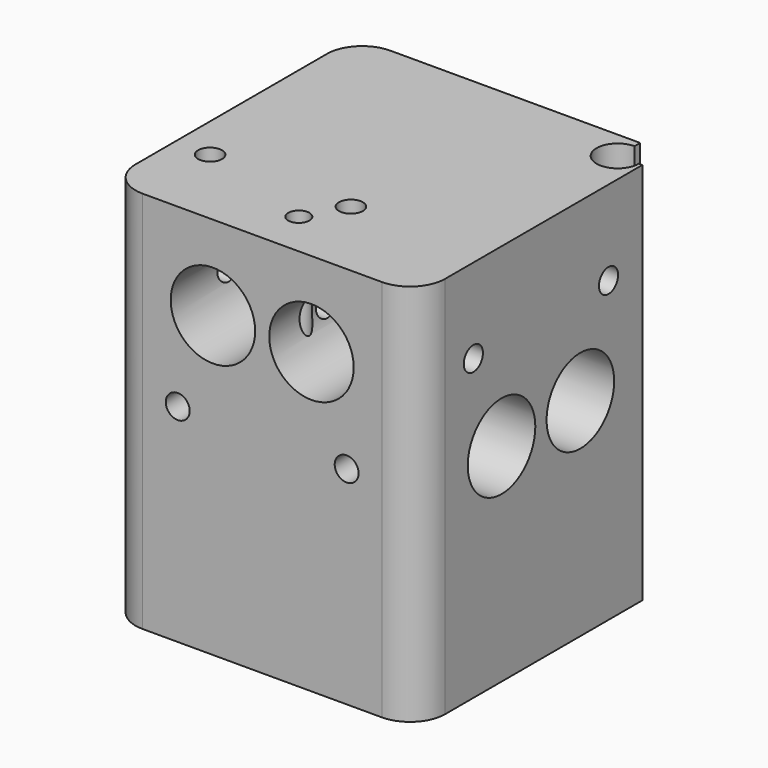
from build123d import *

# Parameters (mm, degrees)
F0_R     = 1.7
F0_R_2   = 1.5
F1_DEPTH = 54.45
F2_R     = 1.7
F2_R_2   = 6
F3_DEPTH = 44
F4_R     = 1.7
F4_R_2   = 6
F5_DEPTH = 44
F6_R     = 5
F7_DEPTH = 55
F8_DEPTH = 5


with BuildPart() as f1:
    # F0 (on Top) → F1 (new body)
    with BuildSketch(Plane.XY):
        with BuildLine():
            Line((18.5, 22), (-22, 22))
            Line((-22, 22), (-22, -22))
            Line((-22, -22), (22, -22))
            Line((22, -22), (22, 18))
            Line((22, 18), (21.5, 18))
            ThreePointArc((21.5, 18), (16.37868, 15.87868), (18.5, 21))
            Line((18.5, 21), (18.5, 22))
        make_face()
        with Locations((-17, -10)):
            Circle(F0_R, mode=Mode.SUBTRACT)
        with Locations((0, -15.5)):
            Circle(F0_R_2, mode=Mode.SUBTRACT)
        with Locations((3, -10)):
            Circle(F0_R, mode=Mode.SUBTRACT)
        with Locations((-17, -10)):
            Circle(F0_R)
        with Locations((0, -15.5)):
            Circle(F0_R_2)
        with Locations((3, -10)):
            Circle(F0_R)
    extrude(amount=-F1_DEPTH)

    # F2 (on face) → F3 (cut)
    with BuildSketch(Plane.XZ.offset(22)):
        with Locations((-12, -25)):
            Circle(F2_R)
        with Locations((12, -25)):
            Circle(F2_R)
        with Locations((-7, -12)):
            Circle(F2_R_2)
        with Locations((7, -12)):
            Circle(F2_R_2)
    extrude(amount=-F3_DEPTH, mode=Mode.SUBTRACT)

    # F4 (on face) → F5 (cut)
    with BuildSketch(Plane.YZ.offset(22)):
        with Locations((-12, -12)):
            Circle(F4_R)
        with Locations((12, -12)):
            Circle(F4_R)
        with Locations((-7, -25)):
            Circle(F4_R_2)
        with Locations((7, -25)):
            Circle(F4_R_2)
    extrude(amount=-F5_DEPTH, mode=Mode.SUBTRACT)

    # F6
    f6_edges = [f1.edges().sort_by_distance(p)[0] for p in [
        (22, -22, -27.225),
        (-22, -22, -27.225),
        (-22, 22, -27.225),
    ]]
    fillet(f6_edges, radius=F6_R)

    # F0 (on Top) → F7 (cut)
    with BuildSketch(Plane.XY):
        with Locations((0, -15.5)):
            Circle(F0_R_2)
    extrude(amount=-F7_DEPTH, mode=Mode.SUBTRACT)

    # F0 (on Top) → F8 (cut)
    with BuildSketch(Plane.XY):
        with Locations((-17, -10)):
            Circle(F0_R)
        with Locations((3, -10)):
            Circle(F0_R)
    extrude(amount=-F8_DEPTH, mode=Mode.SUBTRACT)


solid = f1.part
